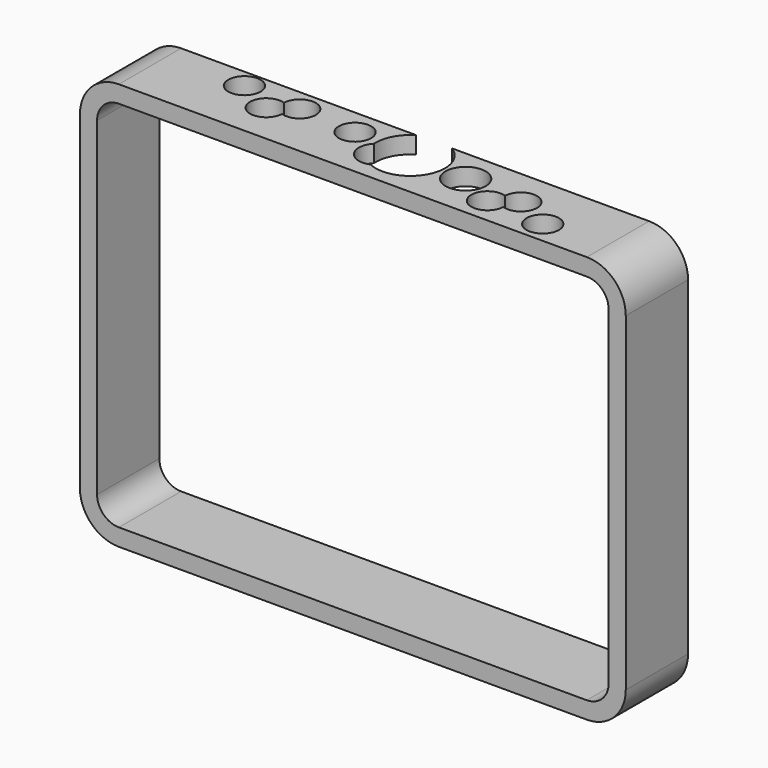
from build123d import *

# Parameters (mm, degrees)
F1_DEPTH = 25.4
F2_R     = 5.2737089528
F2_R_2   = 6.5522963842
F3_DEPTH = 25.4


with BuildPart() as f1:
    # F0 (on Front) → F1 (new body)
    with BuildSketch(Plane.XZ):
        with BuildLine():
            Line((76.3270024538, 66.4210021496), (-76.3270024538, 66.4210021496))
            ThreePointArc((-76.3270024538, 66.4210021496), (-85.3072585749, 62.7012582707), (-89.0270024538, 53.7210021496))
            Line((-89.0270024538, 53.7210021496), (-89.0270024538, -53.7210021496))
            ThreePointArc((-89.0270024538, -53.7210021496), (-85.3072585749, -62.7012582707), (-76.3270024538, -66.4210021496))
            Line((-76.3270024538, -66.4210021496), (76.3270024538, -66.4210021496))
            ThreePointArc((76.3270024538, -66.4210021496), (85.3072585749, -62.7012582707), (89.0270024538, -53.7210021496))
            Line((89.0270024538, -53.7210021496), (89.0270024538, 53.7210021496))
            ThreePointArc((89.0270024538, 53.7210021496), (85.3072585749, 62.7012582707), (76.3270024538, 66.4210021496))
        make_face()
        with BuildLine():
            ThreePointArc((-83.4389999509, 53.7210021496), (-81.3559441118, 58.7499438076), (-76.3270024538, 60.8329996467))
            Line((-76.3270024538, 60.8329996467), (76.3270024538, 60.8329996467))
            ThreePointArc((76.3270024538, 60.8329996467), (81.3559441118, 58.7499438076), (83.4389999509, 53.7210021496))
            Line((83.4389999509, 53.7210021496), (83.4389999509, -53.7210021496))
            ThreePointArc((83.4389999509, -53.7210021496), (81.3559441118, -58.7499438076), (76.3270024538, -60.8329996467))
            Line((76.3270024538, -60.8329996467), (-76.3270024538, -60.8329996467))
            ThreePointArc((-76.3270024538, -60.8329996467), (-81.3559441118, -58.7499438076), (-83.4389999509, -53.7210021496))
            Line((-83.4389999509, -53.7210021496), (-83.4389999509, 53.7210021496))
        make_face(mode=Mode.SUBTRACT)
    extrude(amount=F1_DEPTH)

    # F2 (on face) → F3 (cut)
    with BuildSketch(Plane.XY.offset(66.4210021496)):
        with BuildLine():
            ThreePointArc((42.4100935748, -17.0894959721), (47.2318985675, -16.44577233), (49.4754982548, -12.1294725306))
            ThreePointArc((49.4754982548, -12.1294725306), (44.2802383376, -6.8563470943), (38.9304142859, -11.9725918196))
            ThreePointArc((38.9304142859, -11.9725918196), (41.455018358, -13.9025059955), (42.4124275114, -16.932615261))
            ThreePointArc((42.4124275114, -16.932615261), (42.411843995, -17.0110642966), (42.4100935748, -17.0894959721))
        make_face()
        with BuildLine():
            ThreePointArc((42.4124275114, -16.932615261), (41.455018358, -13.9025059955), (38.9304142859, -11.9725918196))
            ThreePointArc((38.9304142859, -11.9725918196), (39.8408927075, -15.095039426), (42.4100935748, -17.0894959721))
            ThreePointArc((42.4100935748, -17.0894959721), (42.411843995, -17.0110642966), (42.4124275114, -16.932615261))
        make_face()
        with BuildLine():
            ThreePointArc((42.4100935748, -17.0894959721), (39.8408927075, -15.095039426), (38.9304142859, -11.9725918196))
            ThreePointArc((38.9304142859, -11.9725918196), (32.7778219642, -19.8981821563), (42.4100935748, -17.0894959721))
        make_face()
        with Locations((56.1497411863, -18.1506130663)):
            Circle(F2_R)
        with Locations((25.1907666744, -10.9114747254)):
            Circle(F2_R_2)
        with BuildLine():
            ThreePointArc((1.3571952178, -19.9224330682), (12.2357895359, -19.2440179583), (17.4885247542, -9.6934769201))
            ThreePointArc((17.4885247542, -9.6934769201), (5.8170049948, 1.6094847037), (-5.1057663145, -10.4185817197))
            ThreePointArc((-5.1057663145, -10.4185817197), (1.3158519799, -9.0539178543), (4.9868853689, -14.4966196505))
            ThreePointArc((4.9868853689, -14.4966196505), (3.9957986589, -17.7605935258), (1.3571952178, -19.9224330682))
        make_face()
        with BuildLine():
            ThreePointArc((4.9868853689, -14.4966196505), (1.3158519799, -9.0539178543), (-5.1057663145, -10.4185817197))
            ThreePointArc((-5.1057663145, -10.4185817197), (-3.1716296669, -16.052748164), (1.3571952178, -19.9224330682))
            ThreePointArc((1.3571952178, -19.9224330682), (3.9957986589, -17.7605935258), (4.9868853689, -14.4966196505))
        make_face()
        with BuildLine():
            ThreePointArc((1.3571952178, -19.9224330682), (-3.1716296669, -16.052748164), (-5.1057663145, -10.4185817197))
            ThreePointArc((-5.1057663145, -10.4185817197), (-5.7374792548, -17.7976183831), (1.3571952178, -19.9224330682))
        make_face()
        with Locations((-12.8312785807, -8.4754791148)):
            Circle(F2_R)
        with BuildLine():
            ThreePointArc((-33.6339969355, -12.217504751), (-28.8121919428, -11.5737811089), (-26.5685922555, -7.2574813095))
            ThreePointArc((-26.5685922555, -7.2574813095), (-31.7638521727, -1.9843558732), (-37.1136762245, -7.1006005985))
            ThreePointArc((-37.1136762245, -7.1006005985), (-34.5890721523, -9.0305147744), (-33.6316629989, -12.0606240399))
            ThreePointArc((-33.6316629989, -12.0606240399), (-33.6322465153, -12.1390730755), (-33.6339969355, -12.217504751))
        make_face()
        with BuildLine():
            ThreePointArc((-33.6316629989, -12.0606240399), (-34.5890721523, -9.0305147744), (-37.1136762245, -7.1006005985))
            ThreePointArc((-37.1136762245, -7.1006005985), (-36.2031978028, -10.2230482049), (-33.6339969355, -12.217504751))
            ThreePointArc((-33.6339969355, -12.217504751), (-33.6322465153, -12.1390730755), (-33.6316629989, -12.0606240399))
        make_face()
        with BuildLine():
            ThreePointArc((-33.6339969355, -12.217504751), (-36.2031978028, -10.2230482049), (-37.1136762245, -7.1006005985))
            ThreePointArc((-37.1136762245, -7.1006005985), (-43.2662685461, -15.0261909352), (-33.6339969355, -12.217504751))
        make_face()
        with Locations((-50.8533238359, -6.0394835043)):
            Circle(F2_R)
    extrude(amount=-F3_DEPTH, mode=Mode.SUBTRACT)


solid = f1.part
